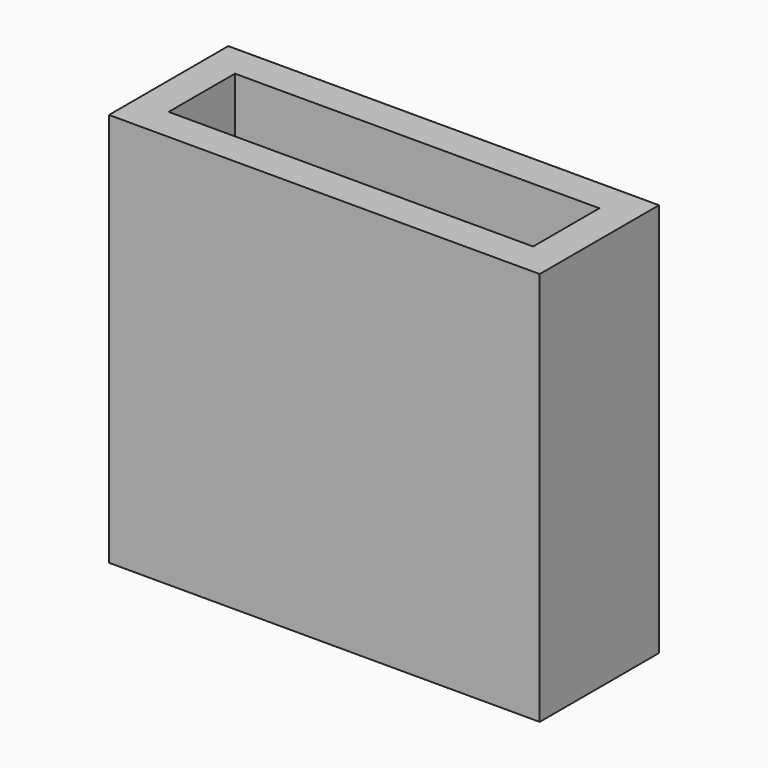
from build123d import *

# Parameters (mm, degrees)
SKETCH_W      = 11
SKETCH_H      = 2.5
SKETCH_R      = 0.8
PAD_DEPTH     = 3.4
SKETCH001_W   = 13
SKETCH001_H   = 4.5
SKETCH001_W_2 = 11
SKETCH001_H_2 = 2.5
PAD001_DEPTH  = 11.9


with BuildPart() as part:
    # Sketch → Pad (new body)
    with BuildSketch(Plane.XY):
        Rectangle(SKETCH_W, SKETCH_H)
        with Locations((-1.27, 0)):
            Circle(SKETCH_R, mode=Mode.SUBTRACT)
        with Locations((1.27, 0)):
            Circle(SKETCH_R, mode=Mode.SUBTRACT)
        with Locations((3.81, 0)):
            Circle(SKETCH_R, mode=Mode.SUBTRACT)
        with Locations((-3.81, 0)):
            Circle(SKETCH_R, mode=Mode.SUBTRACT)
    extrude(amount=PAD_DEPTH)

    # Sketch001 → Pad001 (join)
    with BuildSketch(Plane.XY):
        Rectangle(SKETCH001_W, SKETCH001_H)
        Rectangle(SKETCH001_W_2, SKETCH001_H_2, mode=Mode.SUBTRACT)
    extrude(amount=PAD001_DEPTH)


solid = part.part
